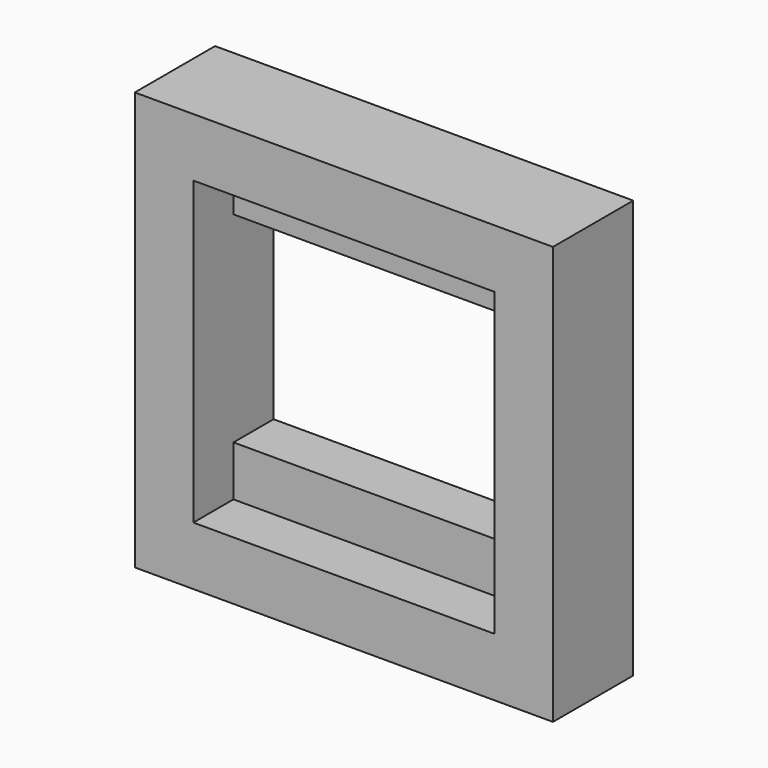
from build123d import *

# Parameters (mm, degrees)
F0_W     = 60
F0_H     = 250
F1_DEPTH = 125
F2_W     = 180
F2_H     = 180
F3_DEPTH = 30
F4_W     = 180
F4_H     = 120
F5_DEPTH = 30.001


with BuildPart() as f1:
    # F0 (on Right) → F1 (new body, symmetric)
    with BuildSketch(Plane.YZ):
        Rectangle(F0_W, F0_H)
    extrude(amount=F1_DEPTH, both=True)

    # F2 (on face) → F3 (cut)
    with BuildSketch(Plane.XZ.offset(30)):
        Rectangle(F2_W, F2_H)
    extrude(amount=-F3_DEPTH, mode=Mode.SUBTRACT)

    # F4 (on face) → F5 (cut, through all)
    with BuildSketch(Plane.XZ):
        Rectangle(F4_W, F4_H)
    extrude(amount=-F5_DEPTH, mode=Mode.SUBTRACT)


solid = f1.part
